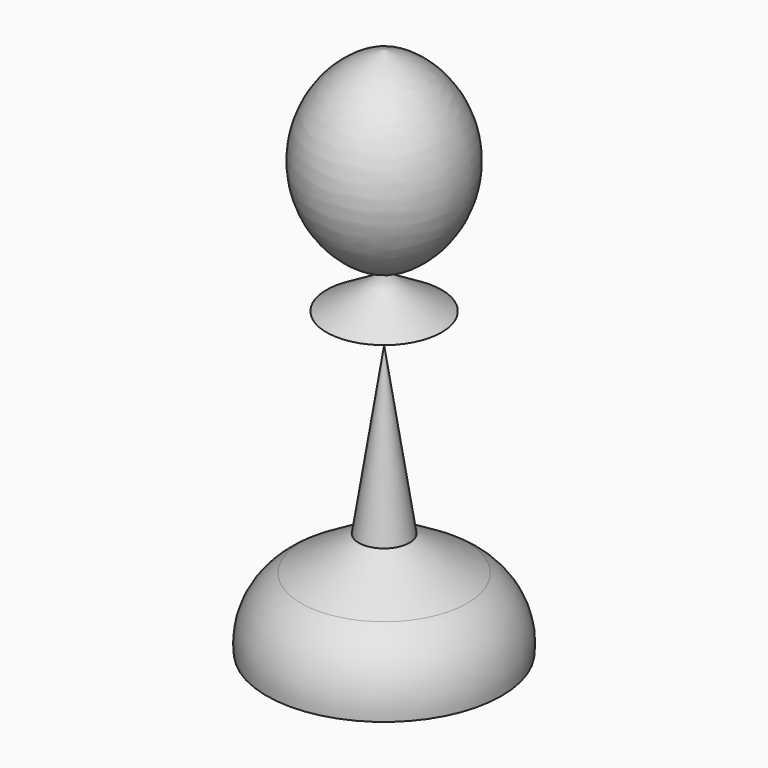
from build123d import *


with BuildPart() as f2:
    # F0 (on Front) + F1 (on Front) → F2 (revolve)
    with BuildSketch(Plane.XZ):
        with BuildLine():
            Line((0, 45.146402), (0, 28.498054))
            ThreePointArc((0, 28.498054), (6.489158, 36.822228), (0, 45.146402))
        make_face()
    with BuildSketch(Plane.XZ):
        Polygon((4.896573, 25.560109), (0, 28.498054), (0, 23.013894), align=None)
        with BuildLine():
            Line((2.154493, 8.911762), (0, 23.013894))
            Line((0, 23.013894), (0, 0))
            Line((0, 0), (9.989008, 0))
            ThreePointArc((9.989008, 0), (9.400495, 3.419922), (7.051065, 5.973819))
            Line((7.051065, 5.973819), (2.154493, 8.911762))
        make_face()
    revolve(axis=Axis((0, 0, 22.377338), (0, 0, 1)))


solid = f2.part
